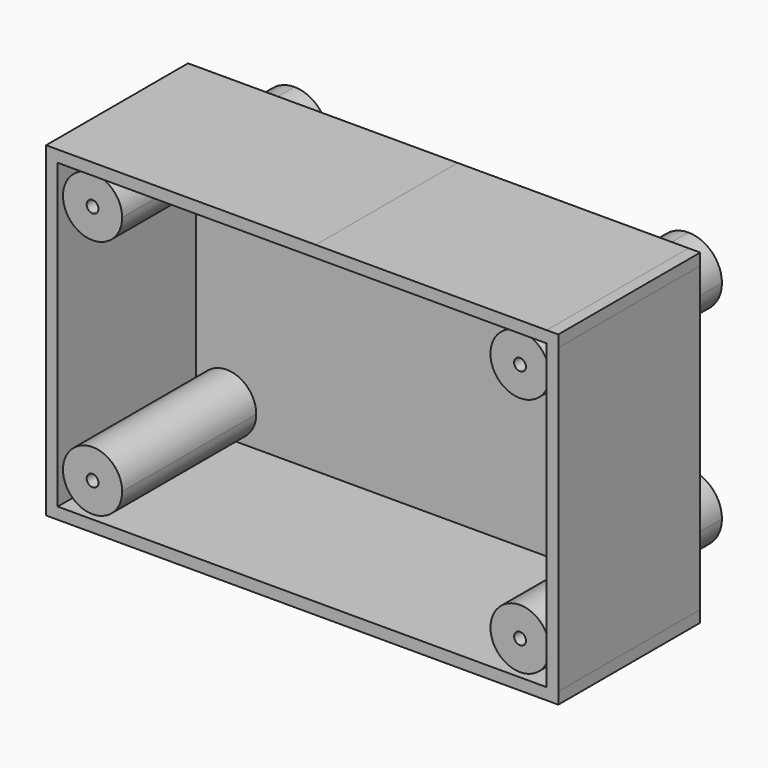
from build123d import *

# Parameters (mm, degrees)
F0_W     = 210
F0_H     = 130
F1_DEPTH = 2
F2_DEPTH = 76.2
F4_DEPTH = 25.4
F5_R     = 2.54
F6_DEPTH = 72
F7_DEPTH = 66.929


with BuildPart() as f1:
    # F0 (on Front) → F1 (new body)
    with BuildSketch(Plane.XZ):
        with Locations((-6.0398806084, -4.6014347222)):
            Rectangle(F0_W, F0_H)
    extrude(amount=F1_DEPTH)

    # F0 (on Front) → F2 (join)
    with BuildSketch(Plane.XZ):
        Polygon((-0.235864222, 65.4023652778), (-111.0638493299, 65.4023652778), (-116.0436806083, 65.4023652778), (-116.0436806083, 60.398529828), (-116.0436806083, -4.06776e-05), (-116.0436806084, -69.6014285846), (-116.0436806084, -74.6014347222), (-111.0398806084, -74.6014347222), (98.9601193916, -74.6014347222), (103.9639193853, -74.6014347222), (103.9639193853, -69.6011838004), (103.9639193916, 60.3988544052), (103.9639193916, 65.3985652778), (98.9361506701, 65.3985652778), align=None)
        with Locations((-6.0398806084, -4.6014347222)):
            Rectangle(F0_W, F0_H, mode=Mode.SUBTRACT)
    extrude(amount=F2_DEPTH)

    # F3 (on face) → F4 (join)
    with BuildSketch(Plane(origin=(0, 0, 0), x_dir=(-1, 0, 0), z_dir=(0, 1, 0))):
        with BuildLine():
            ThreePointArc((-92.9588075555, 39.9985652778), (-78.5639193916, 25.6036771139), (-64.1690312277, 39.9985652778))
            ThreePointArc((-64.1690312277, 39.9985652778), (-68.3851963565, 50.1772883129), (-78.5639193916, 54.3934534417))
            Line((-78.5639193916, 54.3934534417), (-78.5639193916, 50.1585652778))
            ThreePointArc((-78.5639193916, 50.1585652778), (-71.3797144948, 47.1827701747), (-68.4039193916, 39.9985652778))
            ThreePointArc((-68.4039193916, 39.9985652778), (-78.5639193916, 29.8385652778), (-88.7239193916, 39.9985652778))
            Line((-88.7239193916, 39.9985652778), (-92.9588075555, 39.9985652778))
        make_face()
        with BuildLine():
            Line((-78.5639193916, 50.1585652778), (-78.5639193916, 54.3934534417))
            ThreePointArc((-78.5639193916, 54.3934534417), (-88.7426424267, 50.1772883129), (-92.9588075555, 39.9985652778))
            Line((-92.9588075555, 39.9985652778), (-88.7239193916, 39.9985652778))
            ThreePointArc((-88.7239193916, 39.9985652778), (-85.7481242885, 47.1827701747), (-78.5639193916, 50.1585652778))
        make_face()
        with BuildLine():
            ThreePointArc((-64.1690312214, -49.2014347222), (-78.5639193853, -34.8065465583), (-92.9588075492, -49.2014347222))
            Line((-92.9588075492, -49.2014347222), (-88.7239193853, -49.2014347222))
            ThreePointArc((-88.7239193853, -49.2014347222), (-78.5639193853, -39.0414347222), (-68.4039193853, -49.2014347222))
            ThreePointArc((-68.4039193853, -49.2014347222), (-71.3797144885, -56.385639619), (-78.5639193853, -59.3614347222))
            Line((-78.5639193853, -59.3614347222), (-78.5639193853, -63.5963228861))
            ThreePointArc((-78.5639193853, -63.5963228861), (-68.3851963502, -59.3801577573), (-64.1690312214, -49.2014347222))
        make_face()
        with BuildLine():
            Line((-88.7239193853, -49.2014347222), (-92.9588075492, -49.2014347222))
            ThreePointArc((-92.9588075492, -49.2014347222), (-88.7426424204, -59.3801577573), (-78.5639193853, -63.5963228861))
            Line((-78.5639193853, -63.5963228861), (-78.5639193853, -59.3614347222))
            ThreePointArc((-78.5639193853, -59.3614347222), (-85.7481242822, -56.385639619), (-88.7239193853, -49.2014347222))
        make_face()
        with BuildLine():
            ThreePointArc((105.0385687722, 40.0023652778), (100.8224036434, 50.1810883129), (90.6436806083, 54.3972534417))
            Line((90.6436806083, 54.3972534417), (90.6436806083, 50.1623652778))
            ThreePointArc((90.6436806083, 50.1623652778), (97.8278855051, 47.1865701747), (100.8036806083, 40.0023652778))
            Line((100.8036806083, 40.0023652778), (105.0385687722, 40.0023652778))
        make_face()
        with BuildLine():
            Line((90.6436806083, 50.1623652778), (90.6436806083, 54.3972534417))
            ThreePointArc((90.6436806083, 54.3972534417), (80.4649575731, 29.8236422427), (105.0385687722, 40.0023652778))
            Line((105.0385687722, 40.0023652778), (100.8036806083, 40.0023652778))
            ThreePointArc((100.8036806083, 40.0023652778), (83.4594757114, 32.818160381), (90.6436806083, 50.1623652778))
        make_face()
        with BuildLine():
            ThreePointArc((105.0385687723, -49.2014347222), (80.4649575733, -39.0227116871), (90.6436806084, -63.5963228861))
            Line((90.6436806084, -63.5963228861), (90.6436806084, -59.3614347222))
            ThreePointArc((90.6436806084, -59.3614347222), (83.4594757115, -42.0172298253), (100.8036806084, -49.2014347222))
            Line((100.8036806084, -49.2014347222), (105.0385687723, -49.2014347222))
        make_face()
        with BuildLine():
            Line((90.6436806084, -59.3614347222), (90.6436806084, -63.5963228861))
            ThreePointArc((90.6436806084, -63.5963228861), (100.8224036435, -59.3801577573), (105.0385687723, -49.2014347222))
            Line((105.0385687723, -49.2014347222), (100.8036806084, -49.2014347222))
            ThreePointArc((100.8036806084, -49.2014347222), (97.8278855052, -56.385639619), (90.6436806084, -59.3614347222))
        make_face()
    extrude(amount=F4_DEPTH)

    # F5 (on face) → F6 (join)
    with BuildSketch(Plane.XZ.offset(2)):
        with BuildLine():
            ThreePointArc((98.4618922379, -56.3934347222), (76.7816361169, -47.4131786011), (85.7618922379, -69.0934347222))
            ThreePointArc((85.7618922379, -69.0934347222), (94.742148359, -65.3736908433), (98.4618922379, -56.3934347222))
        make_face()
        with Locations((85.7618922379, -56.3934347222)):
            Circle(F5_R, mode=Mode.SUBTRACT)
        with BuildLine():
            ThreePointArc((-110.5318806084, -56.3934347222), (-106.8121367295, -65.3736908433), (-97.8318806084, -69.0934347222))
            ThreePointArc((-97.8318806084, -69.0934347222), (-88.8516244873, -65.3736908433), (-85.1318806084, -56.3934347222))
            ThreePointArc((-85.1318806084, -56.3934347222), (-97.8318806084, -43.6934347222), (-110.5318806084, -56.3934347222))
        make_face()
        with Locations((-97.8318806084, -56.3934347222)):
            Circle(F5_R, mode=Mode.SUBTRACT)
        with BuildLine():
            ThreePointArc((-97.8318806084, 59.8905652778), (-106.8121367295, 56.1708213989), (-110.5318806084, 47.1905652778))
            ThreePointArc((-110.5318806084, 47.1905652778), (-97.8318806084, 34.4905652778), (-85.1318806084, 47.1905652778))
            ThreePointArc((-85.1318806084, 47.1905652778), (-88.8516244873, 56.1708213989), (-97.8318806084, 59.8905652778))
        make_face()
        with Locations((-97.8318806084, 47.1905652778)):
            Circle(F5_R, mode=Mode.SUBTRACT)
        with BuildLine():
            ThreePointArc((85.7521193916, 59.8905652778), (76.7718632705, 38.2103091567), (98.4521193916, 47.1905652778))
            ThreePointArc((98.4521193916, 47.1905652778), (94.7323755127, 56.1708213989), (85.7521193916, 59.8905652778))
        make_face()
        with Locations((85.7521193916, 47.1905652778)):
            Circle(F5_R, mode=Mode.SUBTRACT)
    extrude(amount=F6_DEPTH)

    # F5 (on face) → F7 (join)
    with BuildSketch(Plane.XZ.offset(2)):
        with Locations((-97.8318806084, -56.3934347222)):
            Circle(F5_R)
        with Locations((85.7618922379, -56.3934347222)):
            Circle(F5_R)
        with Locations((-97.8318806084, 47.1905652778)):
            Circle(F5_R)
        with Locations((85.7521193916, 47.1905652778)):
            Circle(F5_R)
    extrude(amount=F7_DEPTH)


solid = f1.part
